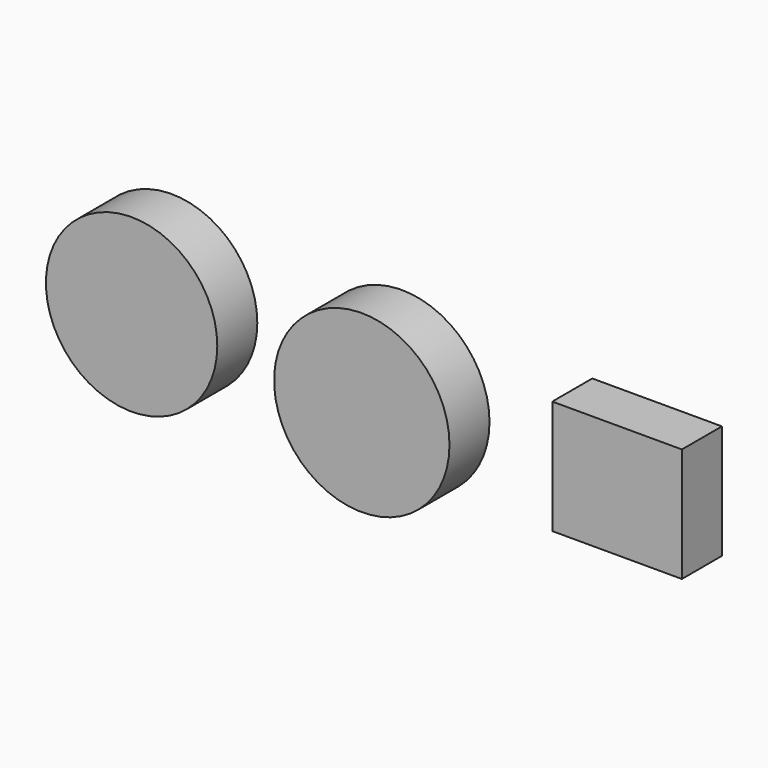
from build123d import *

# Parameters (mm, degrees)
F0_R     = 43.501128
F0_R_2   = 44.520822
F1_DEPTH = 25.4
F2_W     = 65.81272
F2_H     = 57.906297
F3_DEPTH = 25.4


with BuildPart() as f1:
    # F0 (on Front) → F1 (new body)
    with BuildSketch(Plane.XZ):
        with Locations((-43.248665, 66.546939)):
            Circle(F0_R)
        with Locations((73.625676, 60.641065)):
            Circle(F0_R_2)
    extrude(amount=F1_DEPTH)


with BuildPart() as f3:
    # F2 (on Front) → F3 (new body)
    with BuildSketch(Plane.XZ):
        with Locations((203.243517, 68.081169)):
            Rectangle(F2_W, F2_H)
    extrude(amount=F3_DEPTH)


solid = Compound([f1.part, f3.part])
